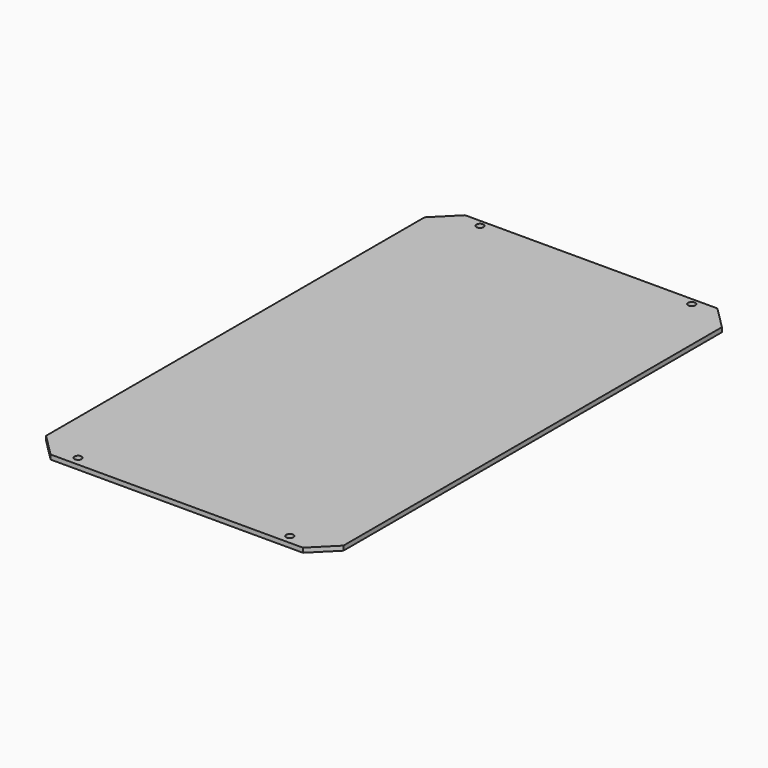
from build123d import *

# Parameters (mm, degrees)
CYLINDER001_R     = 0.8
CYLINDER001_DEPTH = 1
CYLINDER002_R     = 0.8
CYLINDER002_DEPTH = 1
CYLINDER003_R     = 0.8
CYLINDER003_DEPTH = 1
CYLINDER_R        = 0.8
CYLINDER_DEPTH    = 1
PAD003_DEPTH      = 1


with BuildPart() as cylinder001:
    # Cylinder001 → Cylinder001 (new body)
    with BuildSketch(Plane(origin=(57, -2.5, -18), x_dir=(1, 0, 0), z_dir=(0, 0, 1))):
        Circle(CYLINDER001_R)
    extrude(amount=CYLINDER001_DEPTH)


with BuildPart() as cylinder002:
    # Cylinder002 → Cylinder002 (new body)
    with BuildSketch(Plane(origin=(57, 109, -18), x_dir=(1, 0, 0), z_dir=(0, 0, 1))):
        Circle(CYLINDER002_R)
    extrude(amount=CYLINDER002_DEPTH)


with BuildPart() as cylinder003:
    # Cylinder003 → Cylinder003 (new body)
    with BuildSketch(Plane(origin=(10, 109, -18), x_dir=(1, 0, 0), z_dir=(0, 0, 1))):
        Circle(CYLINDER003_R)
    extrude(amount=CYLINDER003_DEPTH)


with BuildPart() as fusion006:
    # Cylinder → Cylinder (new body)
    with BuildSketch(Plane(origin=(10, -2.5, -18), x_dir=(1, 0, 0), z_dir=(0, 0, 1))):
        Circle(CYLINDER_R)
    extrude(amount=CYLINDER_DEPTH)

    # Fusion006: union Cylinder001, Cylinder002, Cylinder003
    add(cylinder001.part)
    add(cylinder002.part)
    add(cylinder003.part)


with BuildPart() as cut002:
    # Sketch003 → Pad003 (new body)
    with BuildSketch(Plane.XY.offset(-18)):
        Polygon((0.5, 0.5), (5.5, -4.5), (61.5, -4.5), (66.5, 0.5), (66.5, 105.5), (61.5, 110.5), (5.5, 110.5), (0.5, 105.5), align=None)
    extrude(amount=PAD003_DEPTH)

    # Cut002: cut Fusion006
    add(fusion006.part, mode=Mode.SUBTRACT)


solid = cut002.part
